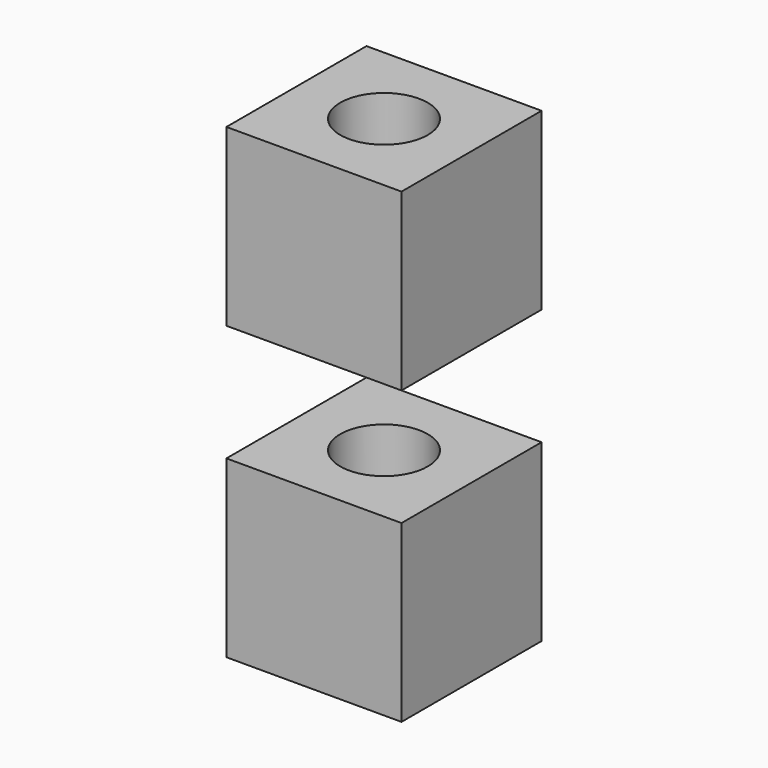
from build123d import *

# Parameters (mm, degrees)
F0_W     = 152.4
F0_H     = 152.4
F1_DEPTH = 152.4
F2_R     = 38.1
F3_DEPTH = 152.4


with BuildPart() as f1:
    # F0 (on Top) → F1 (new body)
    with BuildSketch(Plane.XY):
        Rectangle(F0_W, F0_H)
    extrude(amount=F1_DEPTH)

    # F2 (on face) → F3 (cut, through all)
    with BuildSketch(Plane.XY.offset(152.4)):
        Circle(F2_R)
    extrude(amount=-F3_DEPTH, mode=Mode.SUBTRACT)


with BuildPart() as f5_1:
    # F5: instance of F1
    add(f1.part.mirror(Plane.XY.offset(-50.8)))


solid = Compound([f1.part, f5_1.part])
